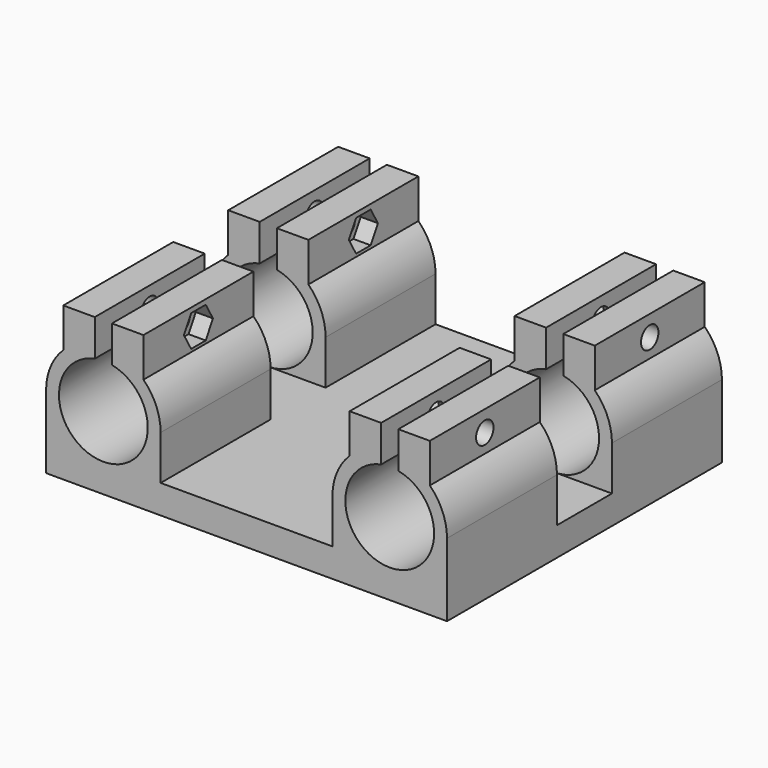
from build123d import *

# Parameters (mm, degrees)
F1_DEPTH      = 30
F2_W          = 12
F2_H          = 21.75
F3_DEPTH      = 20.001
F3_DEPTH_BACK = 50.001
F4_R          = 1.9
F5_DEPTH      = 3
F5_DEPTH_BACK = 40.5
F6_DEPTH      = 17.001
F6_DEPTH_BACK = 53.001
F7_W          = 5.1
F7_H          = 5.1
F8_DEPTH      = 2.5


with BuildPart() as f1:
    # F0 (on Front) → F1 (new body, symmetric)
    with BuildSketch(Plane.XZ):
        with BuildLine():
            Line((-35, 0), (0, 0))
            Line((0, 0), (35, 0))
            Line((35, 0), (35, 12.75))
            ThreePointArc((35, 12.75), (34.2195444573, 16.6229833462), (32, 19.8914284285))
            Line((32, 19.8914284285), (32, 26.75))
            Line((32, 26.75), (26.5, 26.75))
            Line((26.5, 26.75), (26.5, 20.3534531629))
            ThreePointArc((26.5, 20.3534531629), (25, 5), (23.5, 20.3534531629))
            Line((23.5, 20.3534531629), (23.5, 26.75))
            Line((23.5, 26.75), (18, 26.75))
            Line((18, 26.75), (18, 19.8914284285))
            ThreePointArc((18, 19.8914284285), (15.7804555427, 16.6229833462), (15, 12.75))
            Line((15, 12.75), (15, 5))
            Line((15, 5), (0, 5))
            Line((0, 5), (-15, 5))
            Line((-15, 5), (-15, 12.75))
            ThreePointArc((-15, 12.75), (-15.7804555427, 16.6229833462), (-18, 19.8914284285))
            Line((-18, 19.8914284285), (-18, 26.75))
            Line((-18, 26.75), (-23.5, 26.75))
            Line((-23.5, 26.75), (-23.5, 20.3534531629))
            ThreePointArc((-23.5, 20.3534531629), (-25, 5), (-26.5, 20.3534531629))
            Line((-26.5, 20.3534531629), (-26.5, 26.75))
            Line((-26.5, 26.75), (-32, 26.75))
            Line((-32, 26.75), (-32, 19.8914284285))
            ThreePointArc((-32, 19.8914284285), (-34.2195444573, 16.6229833462), (-35, 12.75))
            Line((-35, 12.75), (-35, 0))
        make_face()
    extrude(amount=F1_DEPTH, both=True)

    # F2 (on face) → F3 (cut, two sides)
    with BuildSketch(Plane(origin=(15, 0, 0), x_dir=(0, -1, 0), z_dir=(-1, 0, 0))) as f3_sk:
        with Locations((0, 15.875)):
            Rectangle(F2_W, F2_H)
    extrude(amount=-F3_DEPTH, mode=Mode.SUBTRACT)
    extrude(f3_sk.sketch, amount=F3_DEPTH_BACK, mode=Mode.SUBTRACT)

    # F4 (on face) → F5 (cut, two sides)
    with BuildSketch(Plane.YZ.offset(-18)) as f5_sk:
        Polygon((-16.4122867597, 20.3914284285), (-14.8245735195, 23.1414284285), (-16.4122867597, 25.8914284285), (-19.5877132403, 25.8914284285), (-21.1754264805, 23.1414284285), (-19.5877132403, 20.3914284285), align=None)
        with Locations((-18, 23.1414284285)):
            Circle(F4_R, mode=Mode.SUBTRACT)
        Polygon((19.5877132403, 25.8914284285), (16.4122867597, 25.8914284285), (14.8245735195, 23.1414284285), (16.4122867597, 20.3914284285), (19.5877132403, 20.3914284285), (21.1754264805, 23.1414284285), align=None)
        with Locations((18, 23.1414284285)):
            Circle(F4_R, mode=Mode.SUBTRACT)
    extrude(amount=-F5_DEPTH, mode=Mode.SUBTRACT)
    extrude(f5_sk.sketch, amount=F5_DEPTH_BACK, mode=Mode.SUBTRACT)

    # F4 (on face) → F6 (cut, two sides)
    with BuildSketch(Plane.YZ.offset(-18)) as f6_sk:
        with Locations((18, 23.1414284285)):
            Circle(F4_R)
        with Locations((-18, 23.1414284285)):
            Circle(F4_R)
    extrude(amount=-F6_DEPTH, mode=Mode.SUBTRACT)
    extrude(f6_sk.sketch, amount=F6_DEPTH_BACK, mode=Mode.SUBTRACT)

    # F7 (on face) → F8 (cut)
    with BuildSketch(Plane(origin=(0, 0, 0), x_dir=(1, 0, 0), z_dir=(0, 0, -1))):
        with Locations((-12.7, 24.95)):
            Rectangle(F7_W, F7_H)
        with Locations((11.7, 24.95)):
            Rectangle(F7_W, F7_H)
        with Locations((-12.7, 14.97)):
            Rectangle(F7_W, F7_H)
        with Locations((11.7, 14.97)):
            Rectangle(F7_W, F7_H)
        with Locations((-12.7, 4.99)):
            Rectangle(F7_W, F7_H)
        with Locations((11.7, 4.99)):
            Rectangle(F7_W, F7_H)
        with Locations((-12.7, -4.99)):
            Rectangle(F7_W, F7_H)
        with Locations((11.7, -4.99)):
            Rectangle(F7_W, F7_H)
        with Locations((-12.7, -14.97)):
            Rectangle(F7_W, F7_H)
        with Locations((11.7, -14.97)):
            Rectangle(F7_W, F7_H)
        with Locations((-12.7, -24.95)):
            Rectangle(F7_W, F7_H)
        with Locations((11.7, -24.95)):
            Rectangle(F7_W, F7_H)
    extrude(amount=-F8_DEPTH, mode=Mode.SUBTRACT)


solid = f1.part
